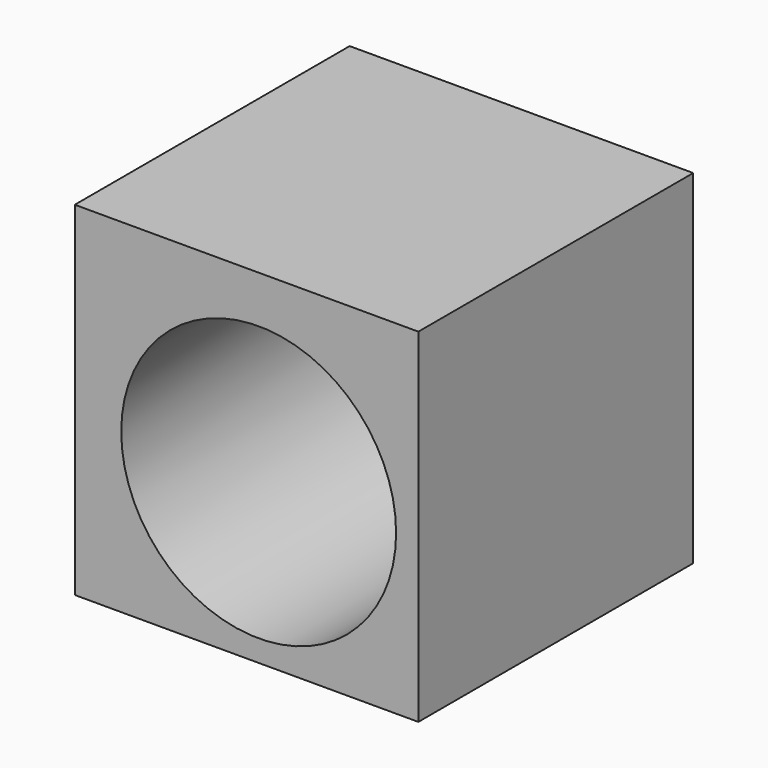
from build123d import *

# Parameters (mm, degrees)
F0_W     = 127
F0_H     = 127
F1_DEPTH = 127
F2_R     = 50.8
F3_DEPTH = 127.001


with BuildPart() as f1:
    # F0 (on Front) → F1 (new body)
    with BuildSketch(Plane.XZ):
        with Locations((-4.4731, 4.709112)):
            Rectangle(F0_W, F0_H)
    extrude(amount=F1_DEPTH)

    # F2 (on face) → F3 (cut, through all)
    with BuildSketch(Plane.XZ.offset(127)):
        Circle(F2_R)
    extrude(amount=-F3_DEPTH, mode=Mode.SUBTRACT)


solid = f1.part
